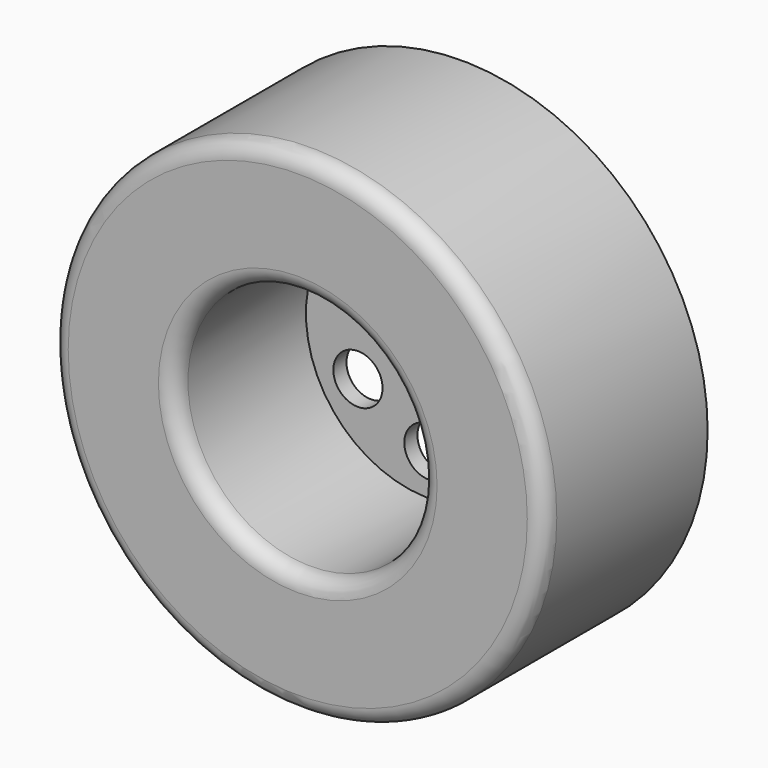
from build123d import *

# Parameters (mm, degrees)
F0_R      = 19.05
F1_DEPTH  = 7.9375
F2_R      = 9.525
F3_DEPTH  = 12.7
F4_T      = -1.27
F5_R      = 1.905
F6_DEPTH  = 3.176
F7_R      = 2.54
F8_DEPTH  = 7.62
F9_R      = 1.27
F10_DEPTH = 21.591
F11_R     = 1.27


with BuildPart() as f1:
    # F0 (on Front) → F1 (new body, symmetric)
    with BuildSketch(Plane.XZ):
        Circle(F0_R)
    extrude(amount=F1_DEPTH, both=True)

    # F2 (on face) → F3 (cut)
    with BuildSketch(Plane.XZ.offset(7.9375)):
        Circle(F2_R)
    extrude(amount=-F3_DEPTH, mode=Mode.SUBTRACT)

    # F4
    f4_openings = [f1.faces().sort_by_distance(p)[0] for p in [
        (0, 7.9375, 0),
    ]]
    offset(amount=F4_T, openings=f4_openings, kind=Kind.INTERSECTION)

    # F5 (on face) → F6 (cut, through all)
    with BuildSketch(Plane.XZ.offset(-4.7625)):
        with Locations((0, 6.35)):
            Circle(F5_R)
        with Locations((-5.499261314, 3.175)):
            Circle(F5_R)
        with Locations((-5.499261314, -3.175)):
            Circle(F5_R)
        with Locations((0, -6.35)):
            Circle(F5_R)
        with Locations((5.499261314, -3.175)):
            Circle(F5_R)
        with Locations((5.499261314, 3.175)):
            Circle(F5_R)
    extrude(amount=-F6_DEPTH, mode=Mode.SUBTRACT)

    # F7 (on face) → F8 (join)
    with BuildSketch(Plane(origin=(0, 6.0325, 0), x_dir=(-1, 0, 0), z_dir=(0, 1, 0))):
        Circle(F7_R)
    extrude(amount=F8_DEPTH)

    # F9 (on face) → F10 (cut, through all)
    with BuildSketch(Plane(origin=(0, 13.6525, 0), x_dir=(-1, 0, 0), z_dir=(0, 1, 0))):
        Circle(F9_R)
    extrude(amount=-F10_DEPTH, mode=Mode.SUBTRACT)

    # F11
    f11_edges = [f1.edges().sort_by_distance(p)[0] for p in [
        (-19.05, -7.9375, 0),
        (-9.525, -7.9375, 0),
    ]]
    fillet(f11_edges, radius=F11_R)


solid = f1.part
